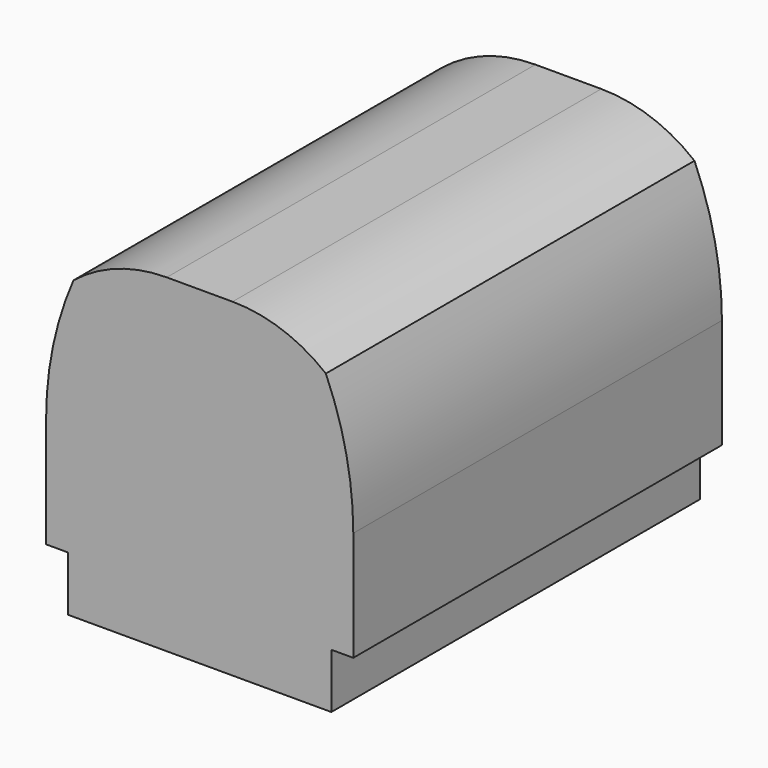
from build123d import *

# Parameters (mm, degrees)
F1_DEPTH = 2100


with BuildPart() as f1:
    # F0 (on Front) → F1 (new body)
    with BuildSketch(Plane.XZ):
        with BuildLine():
            Line((-600, 250), (-600, 0))
            Line((-600, 0), (600, 0))
            Line((600, 0), (600, 250))
            Line((600, 250), (700, 250))
            Line((700, 250), (700, 750))
            ThreePointArc((700, 750), (668.418081, 1056.441267), (575, 1350))
            ThreePointArc((575, 1350), (375.346955, 1461.399705), (150, 1500))
            Line((150, 1500), (-150, 1500))
            ThreePointArc((-150, 1500), (-375.346955, 1461.399705), (-575, 1350))
            ThreePointArc((-575, 1350), (-668.418081, 1056.441267), (-700, 750))
            Line((-700, 750), (-700, 250))
            Line((-700, 250), (-600, 250))
        make_face()
    extrude(amount=F1_DEPTH)


solid = f1.part
